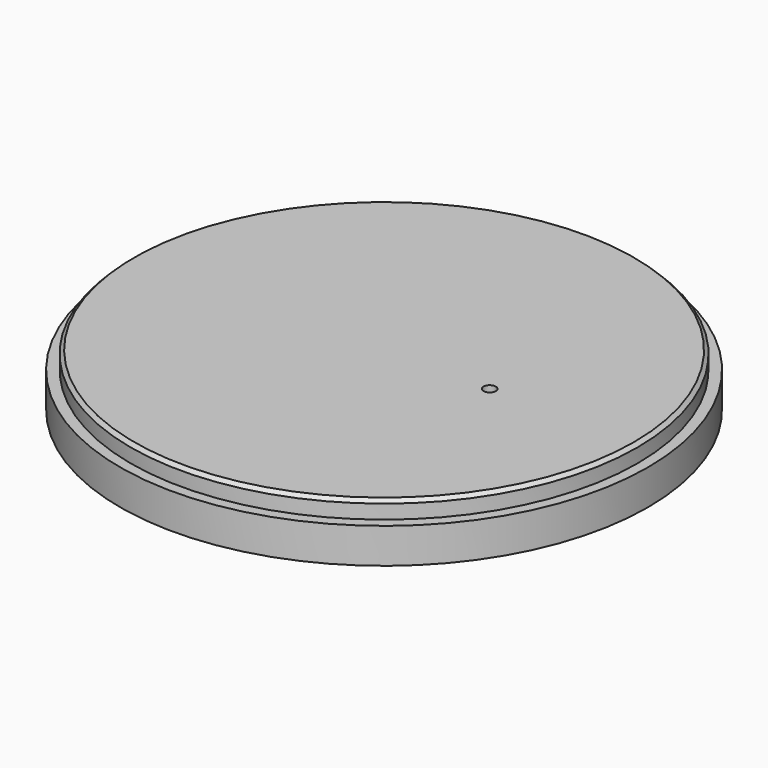
from build123d import *

# Parameters (mm, degrees)
SKETCH_R        = 72
PAD_DEPTH       = 5
SKETCH001_R     = 75
PAD001_DEPTH    = 10
CHAMFER_SIZE    = 1
SKETCH002_R     = 1.75
POCKET_DEPTH    = 15.001
SKETCH003_R     = 7.5
POCKET001_DEPTH = 8


with BuildPart() as part:
    # Sketch → Pad (new body)
    with BuildSketch(Plane.XY):
        Circle(SKETCH_R)
    extrude(amount=PAD_DEPTH)

    # Sketch001 (on Face2 of Pad) → Pad001 (join)
    with BuildSketch(Plane(origin=(0, 0, 0), x_dir=(1, 0, 0), z_dir=(0, 0, -1))):
        Circle(SKETCH001_R)
    extrude(amount=PAD001_DEPTH)

    # Chamfer
    chamfer_edges = [part.edges().sort_by_distance(p)[0] for p in [
        (-72, 0, 5),
    ]]
    chamfer(chamfer_edges, length=CHAMFER_SIZE)

    # Sketch002 (on Face6 of Chamfer) → Pocket (cut, through all)
    with BuildSketch(Plane(origin=(0, 0, -10), x_dir=(1, 0, 0), z_dir=(0, 0, -1))):
        with Locations((30, 0)):
            Circle(SKETCH002_R)
    extrude(amount=-POCKET_DEPTH, mode=Mode.SUBTRACT)

    # Sketch003 (on Face7 of Pocket) → Pocket001 (cut)
    with BuildSketch(Plane(origin=(0, 0, -10), x_dir=(1, 0, 0), z_dir=(0, 0, -1))):
        with Locations((30, 0)):
            Circle(SKETCH003_R)
    extrude(amount=-POCKET001_DEPTH, mode=Mode.SUBTRACT)


solid = part.part
